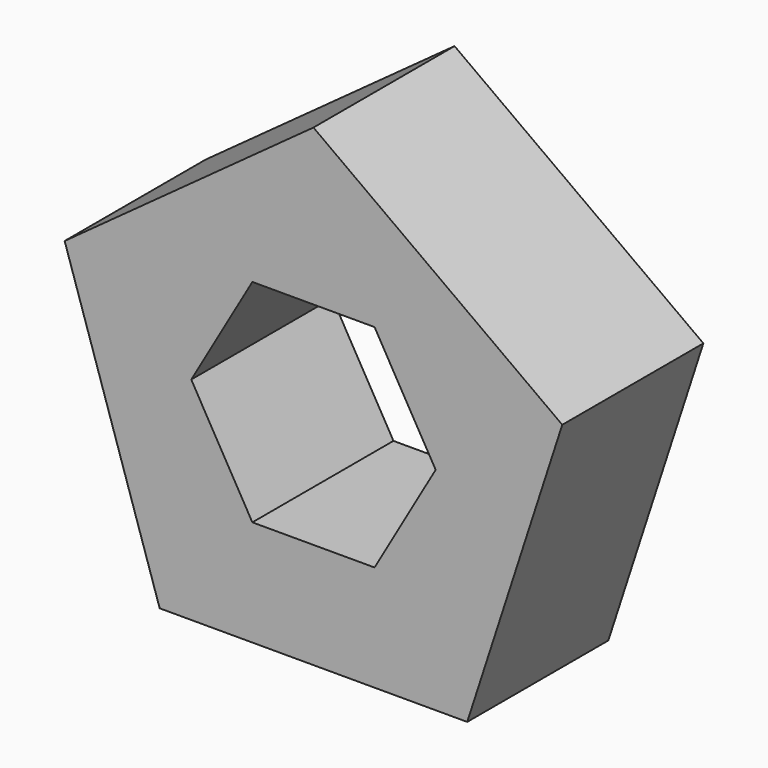
from build123d import *

# Parameters (mm, degrees)
F1_DEPTH = 25


with BuildPart() as f1:
    # F0 (on Front) → F1 (new body)
    with BuildSketch(Plane.XZ):
        Polygon((0, 37.082039), (-35.267115, 11.45898), (-21.796276, -30), (21.796276, -30), (35.267115, 11.45898), align=None)
        Polygon((-17.320508, 0), (-8.660254, 15), (8.660254, 15), (17.320508, 0), (8.660254, -15), (-8.660254, -15), align=None, mode=Mode.SUBTRACT)
    extrude(amount=F1_DEPTH)


solid = f1.part
